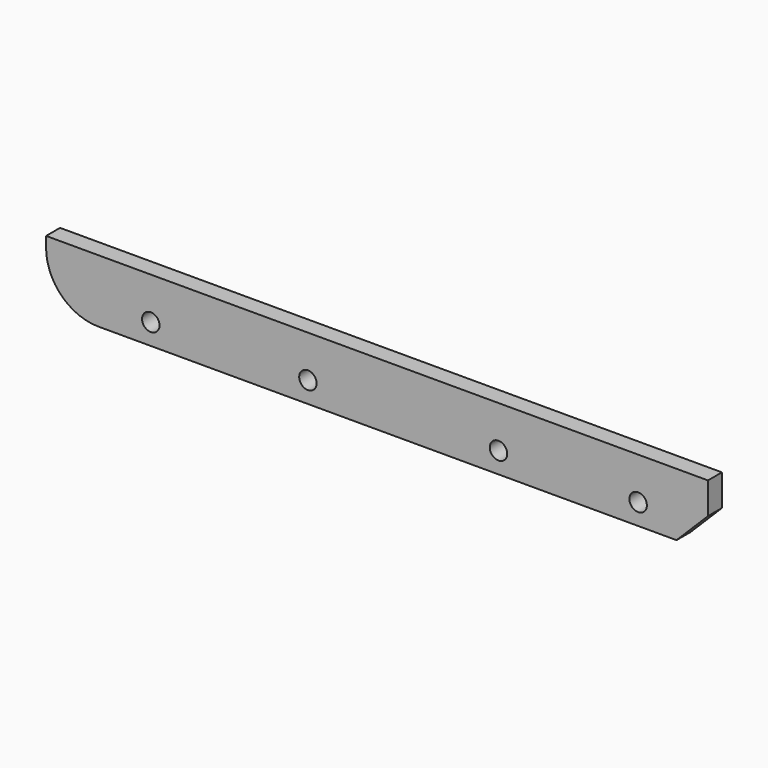
from build123d import *

# Parameters (mm, degrees)
F0_W     = 189.6
F0_H     = 18
F0_R     = 2.5
F1_DEPTH = 5
F3_DEPTH = 25
F4_R     = 15


with BuildPart() as f1:
    # F0 (on Front) → F1 (new body)
    with BuildSketch(Plane.XZ):
        Rectangle(F0_W, F0_H)
        with Locations((-64.8, -3)):
            Circle(F0_R, mode=Mode.SUBTRACT)
        with Locations((-19.8, -3)):
            Circle(F0_R, mode=Mode.SUBTRACT)
        with Locations((34.8, -3)):
            Circle(F0_R, mode=Mode.SUBTRACT)
        with Locations((74.8, -3)):
            Circle(F0_R, mode=Mode.SUBTRACT)
    extrude(amount=F1_DEPTH)

    # F2 (on face) → F3 (cut)
    with BuildSketch(Plane.XZ.offset(5)):
        Polygon((94.8, -9), (94.8, 0), (85.8, -9), align=None)
    extrude(amount=-F3_DEPTH, mode=Mode.SUBTRACT)

    # F4
    f4_edges = [f1.edges().sort_by_distance(p)[0] for p in [
        (-94.8, -2.5, -9),
    ]]
    fillet(f4_edges, radius=F4_R)


solid = f1.part
